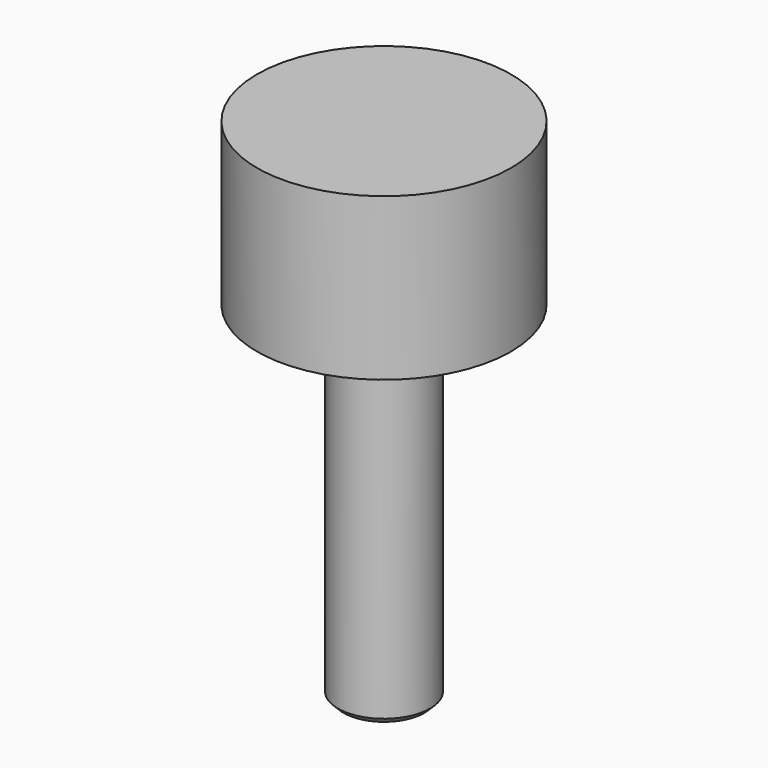
from build123d import *

# Parameters (mm, degrees)
F0_R     = 11
F1_DEPTH = 14
F2_R     = 3.99
F3_DEPTH = 30
F4_SIZE  = 0.5


with BuildPart() as f1:
    # F0 (on Top) → F1 (new body)
    with BuildSketch(Plane.XY):
        Circle(F0_R)
    extrude(amount=F1_DEPTH)

    # F2 (on Top) → F3 (join)
    with BuildSketch(Plane.XY):
        Circle(F2_R)
    extrude(amount=-F3_DEPTH)

    # F4
    f4_edges = [f1.edges().sort_by_distance(p)[0] for p in [
        (-3.99, 0, -30),
    ]]
    chamfer(f4_edges, length=F4_SIZE)


solid = f1.part
